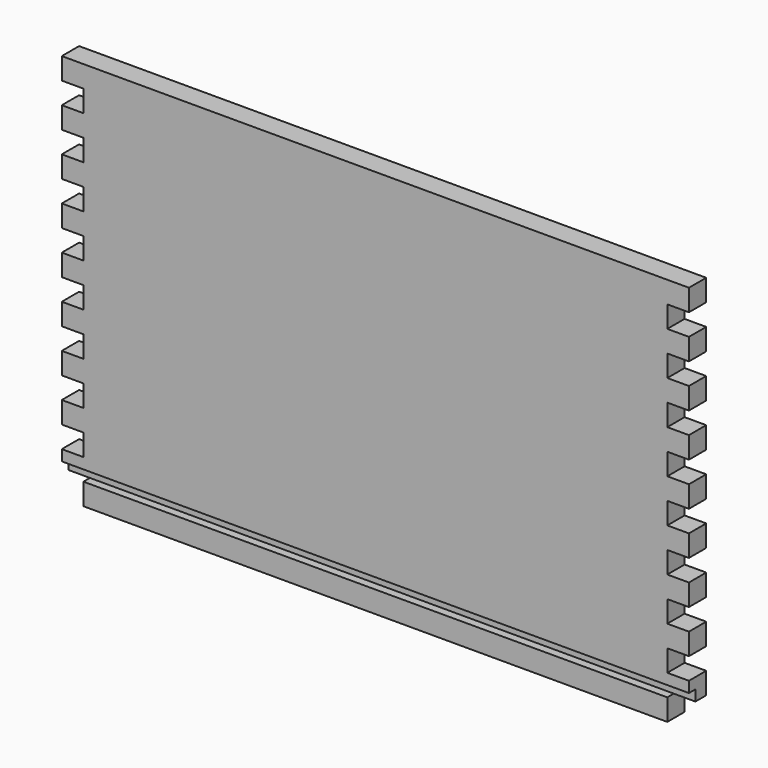
from build123d import *

# Parameters (mm, degrees)
F0_W     = 368.3
F0_H     = 228.6
F1_DEPTH = 12.7
F2_W     = 12.7
F2_H     = 12.7
F3_DEPTH = 25.4
F4_DEPTH = 25.4
F5_W     = 368.3
F5_H     = 6.35
F6_DEPTH = 4.7625


with BuildPart() as f1:
    # F0 (on Front) → F1 (new body)
    with BuildSketch(Plane.XZ):
        Rectangle(F0_W, F0_H)
    extrude(amount=F1_DEPTH)

    # F2 (on face) → F3 (cut)
    with BuildSketch(Plane.XZ.offset(12.7)):
        with Locations((-177.8, 95.25)):
            Rectangle(F2_W, F2_H)
        with Locations((-177.8, 69.85)):
            Rectangle(F2_W, F2_H)
        with Locations((-177.8, 44.45)):
            Rectangle(F2_W, F2_H)
        with Locations((-177.8, 19.05)):
            Rectangle(F2_W, F2_H)
        with Locations((-177.8, -6.35)):
            Rectangle(F2_W, F2_H)
        with Locations((-177.8, -31.75)):
            Rectangle(F2_W, F2_H)
        with Locations((-177.8, -57.15)):
            Rectangle(F2_W, F2_H)
        with Locations((-177.8, -82.55)):
            Rectangle(F2_W, F2_H)
        with Locations((-177.8, -107.95)):
            Rectangle(F2_W, F2_H)
        with Locations((177.8, 69.85)):
            Rectangle(F2_W, F2_H)
        with Locations((177.8, 95.25)):
            Rectangle(F2_W, F2_H)
        with Locations((177.8, -82.55)):
            Rectangle(F2_W, F2_H)
        with Locations((177.8, -107.95)):
            Rectangle(F2_W, F2_H)
        with Locations((177.8, -57.15)):
            Rectangle(F2_W, F2_H)
        with Locations((177.8, -6.35)):
            Rectangle(F2_W, F2_H)
        with Locations((177.8, 19.05)):
            Rectangle(F2_W, F2_H)
        with Locations((177.8, 44.45)):
            Rectangle(F2_W, F2_H)
        with Locations((177.8, -31.75)):
            Rectangle(F2_W, F2_H)
    extrude(amount=-F3_DEPTH, mode=Mode.SUBTRACT)

    # F2 (on face) → F4 (cut)
    with BuildSketch(Plane.XZ.offset(12.7)):
        with Locations((-177.8, 95.25)):
            Rectangle(F2_W, F2_H)
        with Locations((-177.8, 69.85)):
            Rectangle(F2_W, F2_H)
        with Locations((-177.8, 44.45)):
            Rectangle(F2_W, F2_H)
        with Locations((-177.8, 19.05)):
            Rectangle(F2_W, F2_H)
        with Locations((-177.8, -6.35)):
            Rectangle(F2_W, F2_H)
        with Locations((-177.8, -31.75)):
            Rectangle(F2_W, F2_H)
        with Locations((-177.8, -57.15)):
            Rectangle(F2_W, F2_H)
        with Locations((-177.8, -82.55)):
            Rectangle(F2_W, F2_H)
        with Locations((-177.8, -107.95)):
            Rectangle(F2_W, F2_H)
        with Locations((177.8, 69.85)):
            Rectangle(F2_W, F2_H)
        with Locations((177.8, 95.25)):
            Rectangle(F2_W, F2_H)
        with Locations((177.8, -82.55)):
            Rectangle(F2_W, F2_H)
        with Locations((177.8, -107.95)):
            Rectangle(F2_W, F2_H)
        with Locations((177.8, -57.15)):
            Rectangle(F2_W, F2_H)
        with Locations((177.8, -6.35)):
            Rectangle(F2_W, F2_H)
        with Locations((177.8, 19.05)):
            Rectangle(F2_W, F2_H)
        with Locations((177.8, 44.45)):
            Rectangle(F2_W, F2_H)
        with Locations((177.8, -31.75)):
            Rectangle(F2_W, F2_H)
    extrude(amount=-F4_DEPTH, mode=Mode.SUBTRACT)

    # F5 (on face) → F6 (cut)
    with BuildSketch(Plane.XZ.offset(12.7)):
        with Locations((0, -98.425)):
            Rectangle(F5_W, F5_H)
    extrude(amount=-F6_DEPTH, mode=Mode.SUBTRACT)


solid = f1.part
